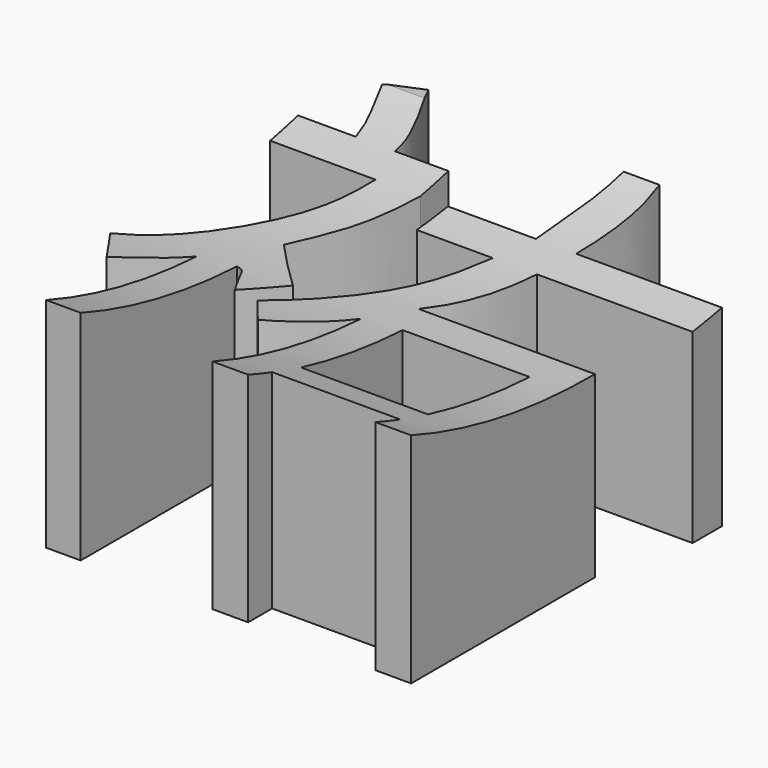
from build123d import *

# Parameters (mm, degrees)
F1_DEPTH = 10
F0_W     = 5.8139264584
F0_H     = 5.8139264584
F3_DEPTH = 200


with BuildPart() as f1:
    # F0 (on Top) → F1 (new body)
    with BuildSketch(Plane.XY):
        with BuildLine():
            Line((22.9741111398, -48.1698401272), (21.3800054044, -48.8410443068))
            add(Edge.make_bspline(
                [(21.3800054044, -48.8410443068), (21.524594907, -49.2160956774), (21.7868467024, -49.8963518062), (22.0824932893, -50.5990640789), (22.1730765622, -51.1305136503), (22.2190096974, -51.4000020921)],
                knots=[0, 0, 0, 0, 0.3772276795, 0.6842034479, 1, 1, 1, 1], degree=3))
            Line((22.2190096974, -51.4000020921), (19.5761490613, -51.4000020921))
            Line((19.5761490613, -51.4000020921), (19.5761490613, -52.9941096902))
            Line((19.5761490613, -52.9941096902), (24.4004167616, -52.9941096902))
            add(Edge.make_bspline(
                [(24.4004167616, -52.9941096902), (24.2679929093, -53.5784359754), (23.98854509, -54.8115122168), (23.0099309061, -56.7937003015), (21.2795782257, -59.3085357977), (19.9512093339, -60.6919749864), (19.2509091372, -61.1524687513), (18.9453065395, -61.3534227014)],
                knots=[0, 0, 0, 0, 0.1908898343, 0.4028258276, 0.6522225297, 0.8482340876, 1, 1, 1, 1], degree=3))
            Line((18.9453065395, -61.3534227014), (20.2137995511, -63.1504505873))
            add(Edge.make_bspline(
                [(22.4336609244, -60.7720278203), (22.2193825413, -61.0447629972), (21.7678373045, -61.6194932534), (20.7947152937, -62.5339951909), (20.391954321, -62.9613965451), (20.2137995511, -63.1504505873)],
                knots=[0, 0, 0, 0, 0.3349448552, 0.7058236663, 1, 1, 1, 1], degree=3))
            Line((22.4336609244, -60.7720278203), (22.4336609244, -69.3872123957))
            Line((22.4336609244, -69.3872123957), (24.0192785859, -69.3872123957))
            Line((24.0192785859, -69.3872123957), (24.0192785859, -60.4549050331))
            add(Edge.make_bspline(
                [(25.2349171788, -62.0933771133), (25.1299231341, -61.9186800346), (24.9155961542, -61.5620665009), (24.5873540863, -60.9917459152), (24.3736706942, -60.5270046564), (24.1299113219, -60.4774128102), (24.0192785859, -60.4549050331)],
                knots=[0, 0, 0, 0, 0.2744106756, 0.5601614031, 0.800374661, 1, 1, 1, 1], degree=3))
            Line((25.2349171788, -62.0933771133), (26.5034101903, -60.3491999209))
            add(Edge.make_bspline(
                [(24.2679929093, -58.0763779581), (24.6090541844, -58.4415971161), (25.3080659698, -59.1901209573), (26.098595302, -59.9566666127), (26.5034101903, -60.3491999209)],
                knots=[0, 0, 0, 0, 0.4879192056, 1, 1, 1, 1], degree=3))
            add(Edge.make_bspline(
                [(26.4559742063, -52.9941096902), (26.2204164278, -53.8074575651), (25.7642118272, -55.3826678796), (24.6031830474, -57.3946817788), (24.3564340323, -57.8965099703), (24.2679929093, -58.0763779581)],
                knots=[0, 0, 0, 0, 0.4065039358, 0.7872759152, 1, 1, 1, 1], degree=3))
            Line((26.4559742063, -52.9941096902), (26.4559742063, -51.4000020921))
            Line((26.4559742063, -51.4000020921), (24.0228660405, -51.4000020921))
            add(Edge.make_bspline(
                [(22.9741111398, -48.1698401272), (23.1677160931, -48.5713815167), (23.5530605276, -49.370595261), (24.0182670501, -50.6466479678), (24.0214963958, -51.1756425361), (24.0228660405, -51.4000020921)],
                knots=[0, 0, 0, 0, 0.367680231, 0.731817695, 1, 1, 1, 1], degree=3))
        make_face()
    extrude(amount=F1_DEPTH)


with BuildPart() as f1b:
    # F0 (on Top) → F1, piece 2 (new body)
    with BuildSketch(Plane.XY):
        with BuildLine():
            Line((31.7416936159, -52.9941096902), (27.7144797146, -52.9941096902))
            Line((27.7144797146, -52.9941096902), (27.6305787265, -54.6721145511))
            Line((27.6305787265, -54.6721145511), (31.1124417931, -54.6721145511))
            add(Edge.make_bspline(
                [(26.3977032155, -62.2519366443), (26.9529510611, -61.6398399962), (28.113947147, -60.3599758448), (29.8765229764, -57.8402958637), (30.6154790091, -56.0805293685), (30.9545730444, -55.119521665), (31.1124417931, -54.6721145511)],
                knots=[0, 0, 0, 0, 0.2702142518, 0.5650047833, 0.7974834606, 1, 1, 1, 1], degree=3))
            Line((26.3977032155, -62.2519366443), (27.5604873896, -63.6789947748))
            add(Edge.make_bspline(
                [(30.0446208566, -60.8777366579), (29.8282077293, -61.218473349), (29.358386486, -61.9581943529), (28.093755143, -63.2617112834), (27.706139733, -63.5650214134), (27.5604873896, -63.6789947748)],
                knots=[0, 0, 0, 0, 0.3477281045, 0.7548989859, 1, 1, 1, 1], degree=3))
            Line((30.0446208566, -60.8777366579), (30.0446208566, -69.3872123957))
            Line((30.0446208566, -69.3872123957), (31.6830910742, -69.3872123957))
            Line((31.6830910742, -69.3872123957), (31.6830910742, -68.0130124092))
            Line((31.6830910742, -68.0130124092), (37.5498719513, -68.0130124092))
            Line((37.5498719513, -68.0130124092), (37.5498719513, -69.4400668144))
            Line((37.5498719513, -69.4400668144), (39.1883403063, -69.4400668144))
            Line((39.1883403063, -69.4400668144), (39.1883403063, -58.9221417904))
            Line((39.1883403063, -58.9221417904), (31.1124417931, -58.9221417904))
            add(Edge.make_bspline(
                [(33.1260487437, -54.6721145511), (32.9899684164, -55.1707391663), (32.7084407151, -56.2023110654), (31.9228094689, -57.8621087911), (31.3677229258, -58.5882113624), (31.1124417931, -58.9221417904)],
                knots=[0, 0, 0, 0, 0.3356903153, 0.6944877678, 1, 1, 1, 1], degree=3))
            Line((33.1260487437, -54.6721145511), (40.2575731277, -54.6721145511))
            Line((40.2575731277, -54.6721145511), (40.2575731277, -52.9941096902))
            Line((40.2575731277, -52.9941096902), (33.587500453, -52.9941096902))
            add(Edge.make_bspline(
                [(33.587500453, -52.9941096902), (33.6951009585, -52.5116532501), (33.9121364598, -51.5385149281), (34.1244981221, -49.9885594753), (34.0445716656, -49.1508939402), (34.0070016682, -48.7571433187)],
                knots=[0, 0, 0, 0, 0.3425634475, 0.6909672891, 1, 1, 1, 1], degree=3))
            Line((34.0070016682, -48.7571433187), (32.3709473014, -48.7571433187))
            add(Edge.make_bspline(
                [(32.3709473014, -48.7571433187), (32.3294307706, -49.2174762774), (32.243288043, -50.1726219968), (31.89417522, -51.7887643764), (31.7898016432, -52.6138226018), (31.7416936159, -52.9941096902)],
                knots=[0, 0, 0, 0, 0.3340056033, 0.6930288528, 1, 1, 1, 1], degree=3))
        make_face()
        with Locations((34.6429087222, -63.5204315186)):
            Rectangle(F0_W, F0_H, mode=Mode.SUBTRACT)
    extrude(amount=F1_DEPTH)


with BuildPart() as f3_tool:
    # F2 (on Right) → F3 (new body)
    with BuildSketch(Plane.YZ):
        with BuildLine():
            Line((-58.9221417904, 10), (-69.4400668144, 10))
            ThreePointArc((-69.4400668144, 10), (-59.0986050665, 8.1901782881), (-48.7571433187, 10))
            add(Edge.make_bspline(
                [(-52.9941096902, 10), (-52.8332908768, 10), (-52.3480926228, 10), (-51.3462425512, 10), (-50.2259894479, 10), (-49.298865578, 10), (-48.8883935258, 10), (-48.7571433187, 10)],
                knots=[0, 0, 0, 0, 0.4824564401, 1.4555947621, 3.0055502149, 3.84321575, 4.2369663715, 4.2369663715, 4.2369663715, 4.2369663715], degree=3))
            Line((-52.9941096902, 10), (-54.6721145511, 10))
            add(Edge.make_bspline(
                [(-54.6721145511, 10), (-54.8383227561, 10), (-55.3483882609, 10), (-56.4117196743, 10), (-57.550877073, 10), (-58.4574873146, 10), (-58.8108316477, 10), (-58.9221417904, 10)],
                knots=[0, 0, 0, 0, 0.4986246152, 1.5301965143, 3.1899942401, 3.9160968113, 4.2500272393, 4.2500272393, 4.2500272393, 4.2500272393], degree=3))
        make_face()
    extrude(amount=F3_DEPTH)


with BuildPart() as f1_1:
    add(f1.part)

    # F3: cut by f3_tool
    add(f3_tool.part, mode=Mode.SUBTRACT)


with BuildPart() as f1b_1:
    add(f1b.part)

    # F3: cut by f3_tool
    add(f3_tool.part, mode=Mode.SUBTRACT)


solid = Compound([f1_1.part, f1b_1.part])
